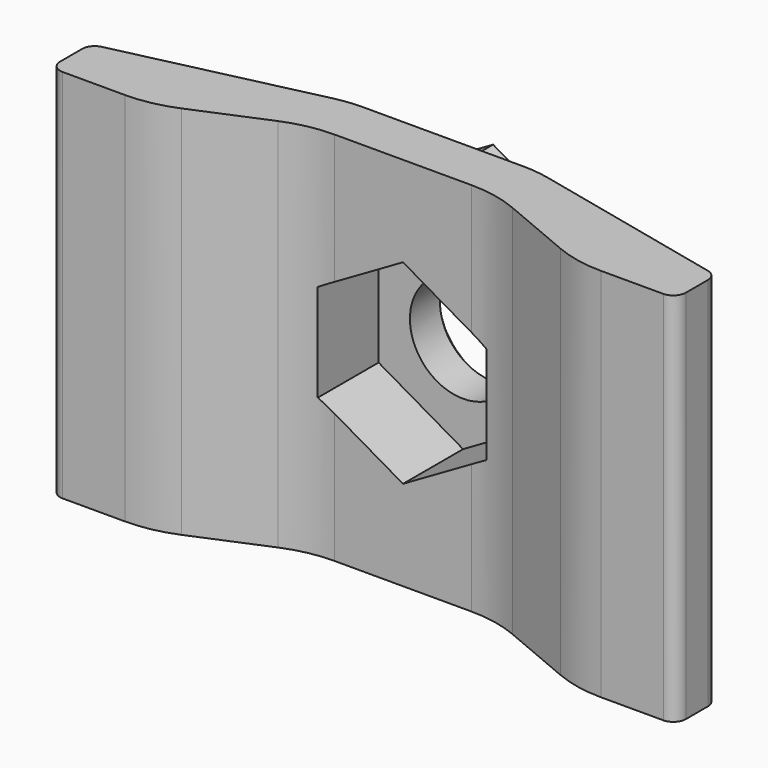
from build123d import *

# Parameters (mm, degrees)
PAD_DEPTH            = 15
SKETCH001_R          = 4.25
HOLE_DEPTH           = 25
CHAMFER_SIZE         = 1
FILLET_R             = 10
FILLET001_R          = 1
FILLET002_R          = 10
PAD003_DEPTH         = 10
SKETCH010_R          = 4.25
HOLE005_DEPTH        = 25
POCKET002_DEPTH      = 6
POCKET002_DEPTH_BACK = 15
CHAMFER003_SIZE      = 1


with BuildPart() as part:
    # Sketch → Pad (new body, symmetric)
    with BuildSketch(Plane.XY):
        Polygon((-25, 0), (-17, 0), (-7.5, 4), (7.5, 4), (17, 0), (25, 0), (25, 4), (7.5, 8), (-7.5, 8), (-25, 4), align=None)
    extrude(amount=PAD_DEPTH, both=True)

    # Sketch001 → Hole (cut)
    with BuildSketch(Plane.XZ):
        Circle(SKETCH001_R)
    extrude(amount=-HOLE_DEPTH, mode=Mode.SUBTRACT)

    # Chamfer
    chamfer_edges = [part.edges().sort_by_distance(p)[0] for p in [
        (4.25, 4, 0),
        (4.25, 8, 0),
    ]]
    chamfer(chamfer_edges, length=CHAMFER_SIZE)

    # Fillet
    fillet_edges = [part.edges().sort_by_distance(p)[0] for p in [
        (-17, 0, 0),
        (17, 0, 0),
    ]]
    fillet(fillet_edges, radius=FILLET_R)

    # Fillet001
    fillet001_edges = [part.edges().sort_by_distance(p)[0] for p in [
        (25, 0, 0),
        (25, 4, 0),
        (-25, 0, 0),
        (-25, 4, 0),
    ]]
    fillet(fillet001_edges, radius=FILLET001_R)

    # Fillet002
    fillet002_edges = [part.edges().sort_by_distance(p)[0] for p in [
        (-7.5, 4, 0),
        (7.5, 4, 0),
        (7.5, 8, 0),
        (-7.5, 8, 0),
    ]]
    fillet(fillet002_edges, radius=FILLET002_R)

    # Sketch009 (on Face5 of Clone) → Pad003 (new body)
    with BuildSketch(Plane.XZ.offset(-4)):
        Polygon((10.75, -6.206515), (10.75, 6.206515), (0, 12.413031), (-10.75, 6.206515), (-10.75, -6.206515), (0, -12.413031), align=None)
    extrude(amount=-PAD003_DEPTH)

    # Sketch010 (on Face34 of Pad003) → Hole005 (cut)
    with BuildSketch(Plane.XZ.offset(-4)):
        Circle(SKETCH010_R)
    extrude(amount=-HOLE005_DEPTH, mode=Mode.SUBTRACT)

    # Sketch011 (on Face23 of Hole005) → Pocket002 (cut, two sides)
    with BuildSketch(Plane.XZ.offset(-4)) as pocket002_sk:
        Polygon((6.75, -3.897114), (6.75, 3.897114), (0, 7.794229), (-6.75, 3.897114), (-6.75, -3.897114), (0, -7.794229), align=None)
    extrude(amount=-POCKET002_DEPTH, mode=Mode.SUBTRACT)
    extrude(pocket002_sk.sketch, amount=POCKET002_DEPTH_BACK, mode=Mode.SUBTRACT)

    # Chamfer003
    chamfer003_edges = [part.edges().sort_by_distance(p)[0] for p in [
        (10.75, 14, 0),
        (5.375, 14, -9.309773),
        (5.375, 14, 9.309773),
        (-5.375, 14, -9.309773),
        (-5.375, 14, 9.309773),
        (-10.75, 14, 0),
        (4.25, 14, 0),
    ]]
    chamfer(chamfer003_edges, length=CHAMFER003_SIZE)


solid = part.part
